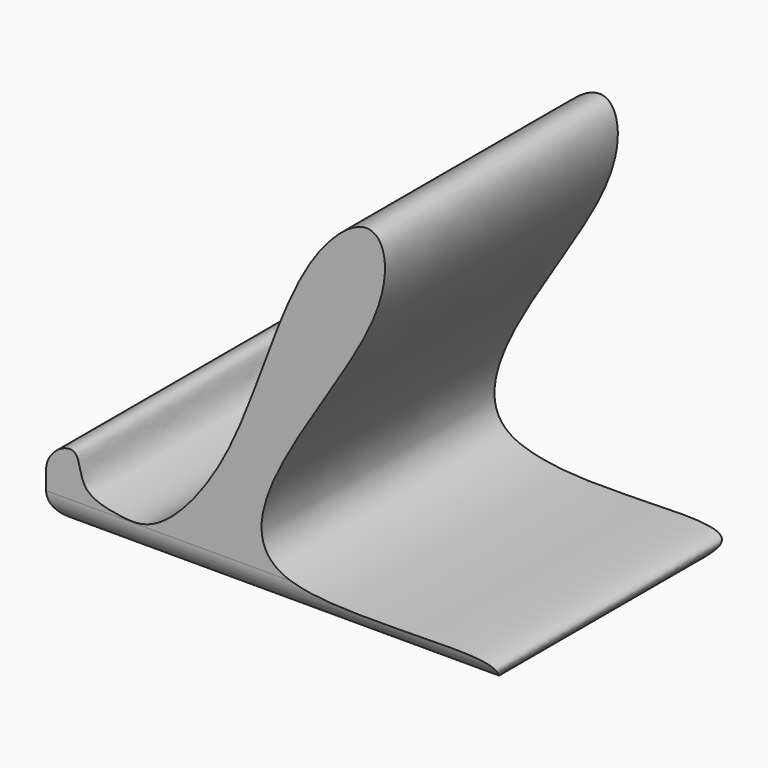
from build123d import *

# Parameters (mm, degrees)
F1_DEPTH = 50.8
F2_R     = 5.08


with BuildPart() as f1:
    # F0 (on Front) → F1 (new body)
    with BuildSketch(Plane.XZ):
        with BuildLine():
            add(Edge.make_bspline(
                [(-76.2, -13.3763061718), (-76.3655174617, -11.3923943896), (-74.0859697265, -8.5560500216), (-70.2211294278, -8.1345843938), (-70.3972893599, -14.4742661724), (-63.6207593052, -15.9776045667), (-56.4130351739, -16.6547211686), (-41.820986987, 0.0236689312), (-33.8666857583, 33.0590070786), (-17.8513838169, 46.7063888169), (-13.9529439252, 26.5136192422), (-65.2918263451, -29.3339826002), (9.8509075522, -13.6146143991), (0, -21.2969200909)],
                knots=[0, 0, 0, 0, 0.0541151372, 0.0926993392, 0.1449079476, 0.2034692628, 0.2638003699, 0.3709419277, 0.5157475296, 0.604232306, 0.6934131095, 0.8568538951, 1, 1, 1, 1], degree=3))
            Line((-76.2, -13.3763061718), (-76.2, -21.2969200909))
            Line((-76.2, -21.2969200909), (-58.8404767847, -21.2969200909))
            Line((-58.8404767847, -21.2969200909), (0, -21.2969200909))
        make_face()
    extrude(amount=F1_DEPTH)

    # F2
    f2_edges = [f1.edges().sort_by_distance(p)[0] for p in [
        (-38.1, -50.8, -21.29692),
        (-38.1, 0, -21.29692),
        (-76.2, -25.4, -21.29692),
    ]]
    fillet(f2_edges, radius=F2_R)


solid = f1.part
